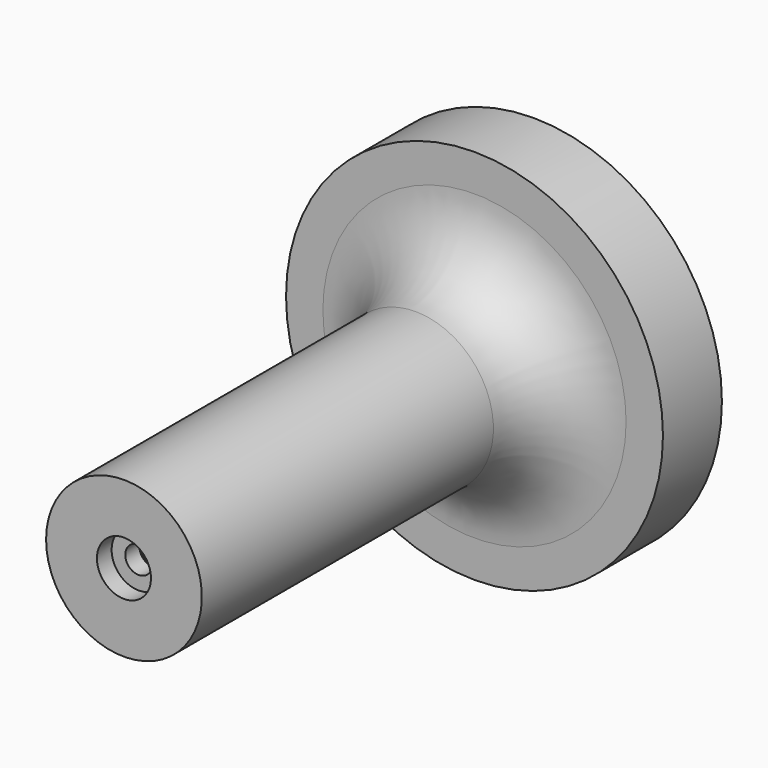
from build123d import *


with BuildPart() as f1:
    # F0 (on Top) → F1 (revolve)
    with BuildSketch(Plane.XY):
        with BuildLine():
            Line((-24.565611, -9), (-24.565611, 0))
            Line((-24.565611, 0), (-25.565611, 0))
            Line((-25.565611, 0), (-25.565611, -10))
            Line((-25.565611, -10), (-20.565611, -10))
            ThreePointArc((-20.565611, -10), (-13.494544, -12.928932), (-10.565611, -20))
            Line((-10.565611, -20), (-10.565611, -69.441505))
            Line((-10.565611, -69.441505), (-3.665611, -69.441505))
            Line((-3.665611, -69.441505), (-3.665611, -66.952899))
            Line((-3.665611, -66.952899), (-1.815611, -66.952899))
            Line((-1.815611, -66.952899), (-1.815611, -64.549737))
            Line((-1.815611, -64.549737), (-1.565611, -64.549737))
            Line((-1.565611, -64.549737), (-1.565611, -60.944844))
            Line((-1.565611, -60.944844), (-9.565611, -60.944844))
            Line((-9.565611, -60.944844), (-9.565611, -20))
            ThreePointArc((-9.565611, -20), (-12.787437, -12.221825), (-20.565611, -9))
            Line((-20.565611, -9), (-24.565611, -9))
        make_face()
    revolve(axis=Axis((0, -3.341071, 0), (0, -1, 0)))


solid = f1.part
